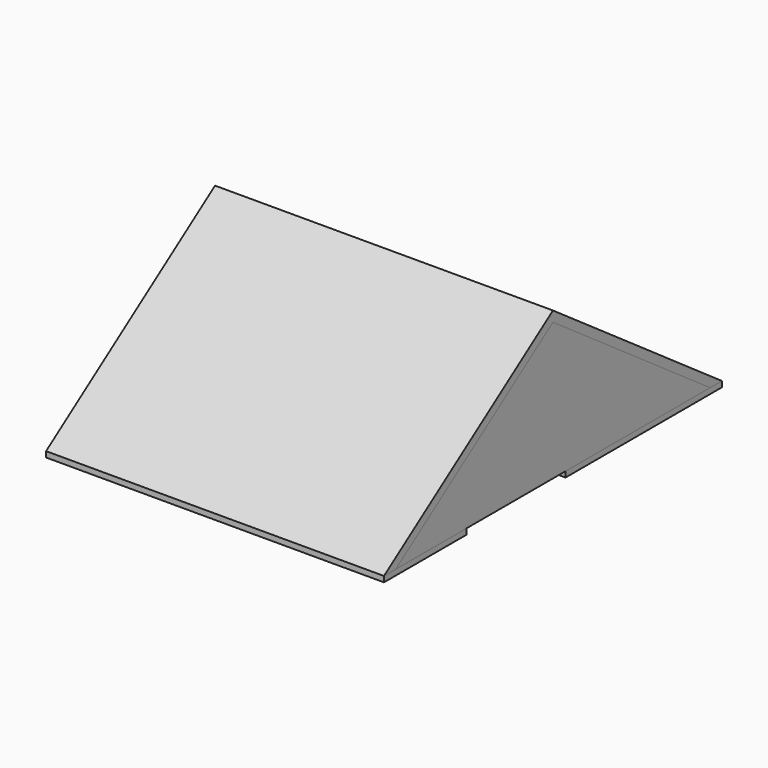
from build123d import *

# Parameters (mm, degrees)
F0_W      = 6000
F0_H      = 7500
F1_DEPTH  = 100
F2_W      = 1000
F2_H      = 2200
F3_DEPTH  = 100.001
F5_DEPTH  = 6000
F7_DEPTH  = 25
F11_DEPTH = 60


with BuildPart() as f1:
    # F0 (on Top) → F1 (new body)
    with BuildSketch(Plane.XY):
        Rectangle(F0_W, F0_H)
    extrude(amount=F1_DEPTH)

    # F2 (on face) → F3 (cut, through all)
    with BuildSketch(Plane.XY.offset(100)):
        with Locations((2500, -820)):
            Rectangle(F2_W, F2_H)
    extrude(amount=-F3_DEPTH, mode=Mode.SUBTRACT)


with BuildPart() as f5:
    # F4 (on face) → F5 (new body)
    with BuildSketch(Plane.YZ.offset(3000)):
        Polygon((0, 2725.778268), (-3750, 100), (-3488.482981, 100), (0, 2542.66208), (3488.482981, 100), (3750, 100), align=None)
    extrude(amount=-F5_DEPTH)


with BuildPart() as f7:
    # F6 (on face) → F7 (new body)
    with BuildSketch(Plane(origin=(-3000, 0, 0), x_dir=(0, -1, 0), z_dir=(-1, 0, 0))):
        Polygon((0, 2542.66208), (-3488.482981, 100), (3488.482981, 100), align=None)
    extrude(amount=-F7_DEPTH)


with BuildPart() as f8_1:
    # F8: instance of F7
    add(f7.part.mirror(Plane.YZ))


with BuildPart() as f11:
    # F10 (on offset) → F11 (new body)
    with BuildSketch(Plane.YZ.offset(1000)):
        Polygon((-2854.16402, 300), (-151.162443, 2192.66208), (151.162443, 2192.66208), (2854.16402, 300), (2854.16402, 0), (2968.879307, 0), (2968.879307, 463.830409), (0, 2542.66208), (-2968.879307, 463.830409), (-2968.879307, 0), (-2854.16402, 0), align=None)
    extrude(amount=-F11_DEPTH)


solid = Compound([f1.part, f5.part, f7.part, f8_1.part, f11.part])
